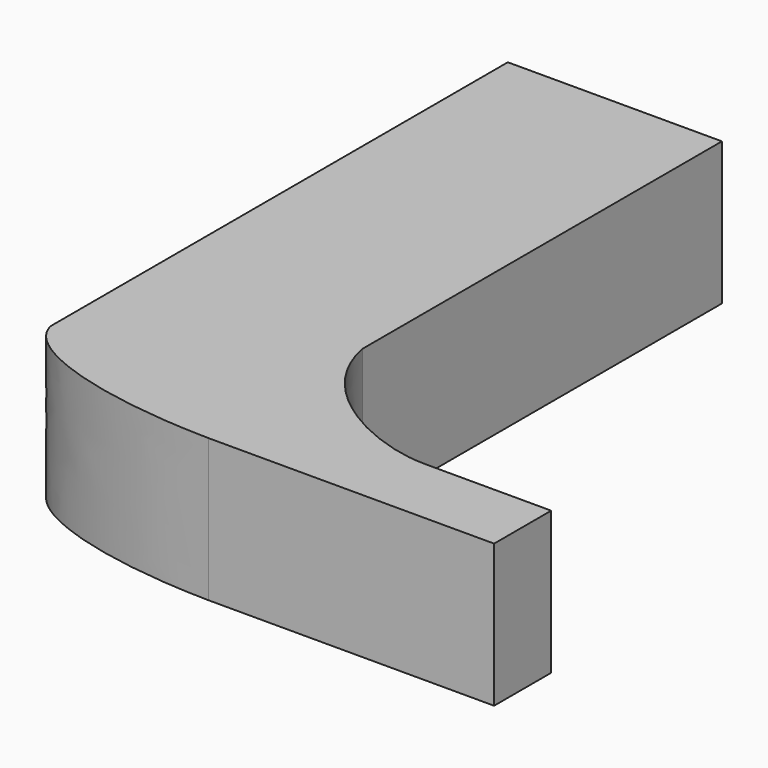
from build123d import *

# Parameters (mm, degrees)
F1_DEPTH = 25.4
F2_R     = 4.72896
F3_DEPTH = 6.35


with BuildPart() as f1:
    # F0 (on Top) → F1 (new body)
    with BuildSketch(Plane.XY):
        Polygon((19.05, 50.8), (-19.05, 50.8), (-19.05, -50.8), (19.05, -50.8), (19.05, -29.146114), align=None)
        with BuildLine():
            Line((19.05, -50.8), (-19.05, -50.8))
            add(Edge.make_bspline(
                [(-19.05, -50.8), (-17.541779, -58.375139), (0, -63.247859), (19.156481, -63.5)],
                knots=[0, 0, 0, 0, 40.261957, 40.261957, 40.261957, 40.261957], degree=3))
            Line((19.156481, -63.5), (19.156481, -50.8))
            Line((19.156481, -50.8), (19.05, -50.8))
        make_face()
        with BuildLine():
            add(Edge.make_bspline(
                [(19.05, -29.146114), (21.634858, -42.782448), (37.790419, -50.8), (47.486834, -50.8)],
                knots=[0, 0, 0, 0, 35.742752, 35.742752, 35.742752, 35.742752], degree=3))
            Line((19.05, -29.146114), (19.05, -50.8))
            Line((19.05, -50.8), (19.156481, -50.8))
            Line((19.156481, -50.8), (47.486834, -50.8))
        make_face()
        Polygon((19.156481, -50.8), (19.156481, -63.5), (69.950667, -63.5), (69.950667, -50.8), (47.486834, -50.8), align=None)
    extrude(amount=F1_DEPTH)

    # F2 (on Top) → F3 (cut, symmetric)
    with BuildSketch(Plane.XY):
        with Locations((-5.404981, 37.472747)):
            Circle(F2_R)
    extrude(amount=F3_DEPTH, both=True, mode=Mode.SUBTRACT)


solid = f1.part
